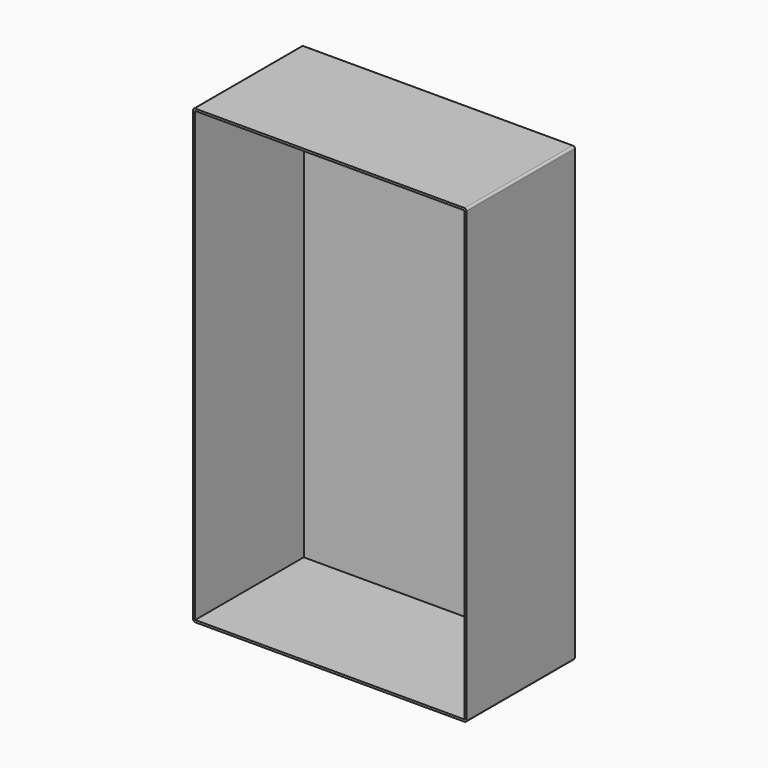
from build123d import *

# Parameters (mm, degrees)
F0_W     = 260
F0_H     = 430
F1_DEPTH = 130
F2_W     = 256
F2_H     = 426
F3_DEPTH = 129
F4_R     = 2


with BuildPart() as f1:
    # F0 (on Front) → F1 (new body)
    with BuildSketch(Plane.XZ):
        Rectangle(F0_W, F0_H)
    extrude(amount=F1_DEPTH)

    # F2 (on face) → F3 (cut)
    with BuildSketch(Plane.XZ.offset(130)):
        Rectangle(F2_W, F2_H)
    extrude(amount=-F3_DEPTH, mode=Mode.SUBTRACT)

    # F4
    f4_edges = [f1.edges().sort_by_distance(p)[0] for p in [
        (-130, -65, 215),
        (130, -65, 215),
        (-130, -65, -215),
        (130, -65, -215),
        (0, 0, -215),
        (130, 0, 0),
        (-130, 0, 0),
        (0, 0, 215),
    ]]
    fillet(f4_edges, radius=F4_R)


solid = f1.part
